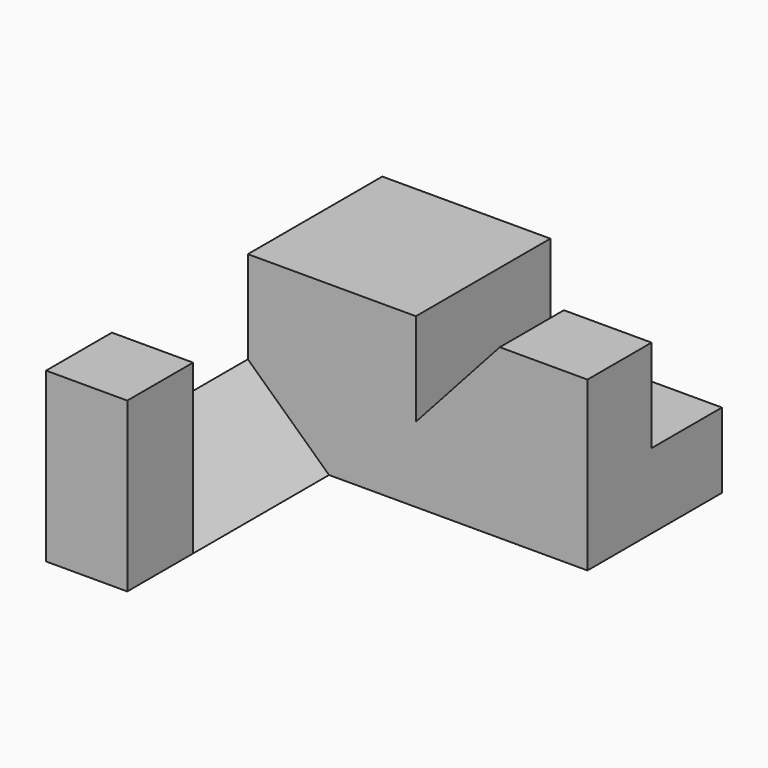
from build123d import *

# Parameters (mm, degrees)
F0_W      = 15.7734
F0_H      = 15.7734
F1_DEPTH  = 15.7734
F3_DEPTH  = 15.9512
F5_DEPTH  = 7.7216
F6_W      = 15.7734
F6_H      = 7.053915
F7_DEPTH  = 16.1036
F8_W      = 7.5184
F8_H      = 8.719485
F9_DEPTH  = 16.1036
F11_DEPTH = 25.4


with BuildPart() as f1:
    # F0 (on Front) → F1 (new body)
    with BuildSketch(Plane.XZ):
        with Locations((7.8867, 7.8867)):
            Rectangle(F0_W, F0_H)
    extrude(amount=F1_DEPTH)

    # F2 (on face) → F3 (join)
    with BuildSketch(Plane.XZ.offset(15.7734)):
        Polygon((0, 7.0866), (0, 0), (7.62, 0), align=None)
    extrude(amount=F3_DEPTH)

    # F4 (on face) → F5 (join)
    with BuildSketch(Plane.XZ.offset(31.7246)):
        Polygon((0, 7.0866), (7.62, 0), (7.62, 15.7734), (0, 15.7734), align=None)
        Polygon((0, 7.0866), (0, 0), (7.62, 0), align=None)
    extrude(amount=F5_DEPTH)

    # F6 (on face) → F7 (join)
    with BuildSketch(Plane.YZ.offset(15.7734)):
        with Locations((-7.8867, 3.526957)):
            Rectangle(F6_W, F6_H)
    extrude(amount=F7_DEPTH)

    # F8 (on face) → F9 (join, through all)
    with BuildSketch(Plane.YZ.offset(31.877)):
        with Locations((-12.0142, 11.413657)):
            Rectangle(F8_W, F8_H)
    extrude(amount=-F9_DEPTH)

    # F10 (on face) → F11 (cut)
    with BuildSketch(Plane(origin=(0, -8.255, 0), x_dir=(-1, 0, 0), z_dir=(0, 1, 0))):
        Polygon((-23.6474, 15.7734), (-15.7734, 7.053915), (-15.7734, 15.7734), align=None)
    extrude(amount=-F11_DEPTH, mode=Mode.SUBTRACT)


solid = f1.part
